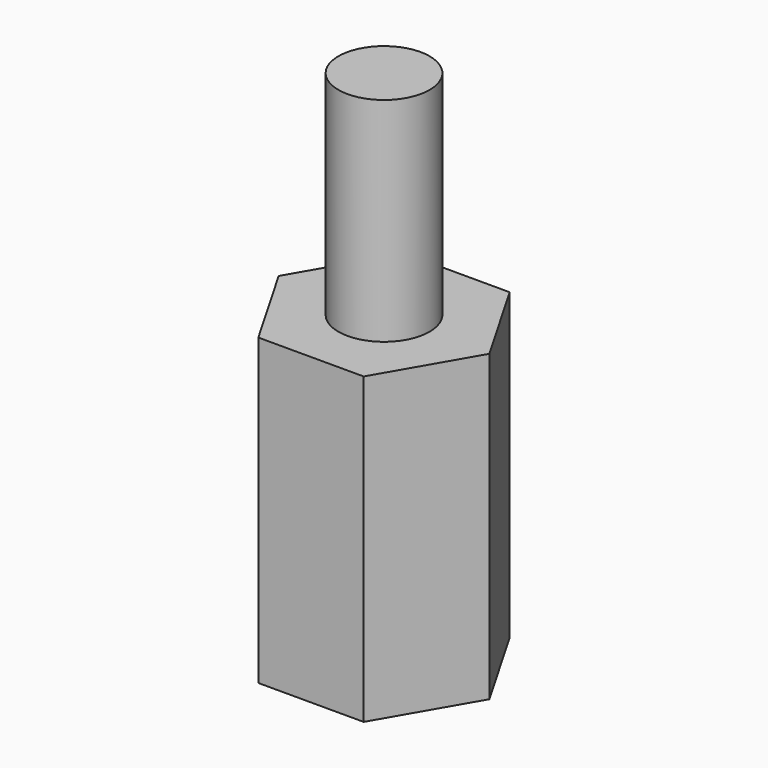
from build123d import *

# Parameters (mm, degrees)
F1_DEPTH = 10
F2_R     = 1.5
F3_DEPTH = 7
F4_R     = 1.5
F5_DEPTH = 5


with BuildPart() as f1:
    # F0 (on Top) → F1 (new body)
    with BuildSketch(Plane.XY):
        Polygon((1.7320508076, 3), (-1.7320508076, 3), (-3.4641016151, 0), (-1.7320508076, -3), (1.7320508076, -3), (3.4641016151, 0), align=None)
    extrude(amount=F1_DEPTH)

    # F2 (on face) → F3 (join)
    with BuildSketch(Plane.XY.offset(10)):
        Circle(F2_R)
    extrude(amount=F3_DEPTH)

    # F4 (on face) → F5 (cut)
    with BuildSketch(Plane(origin=(0, 0, 0), x_dir=(1, 0, 0), z_dir=(0, 0, -1))):
        Circle(F4_R)
    extrude(amount=-F5_DEPTH, mode=Mode.SUBTRACT)


solid = f1.part
